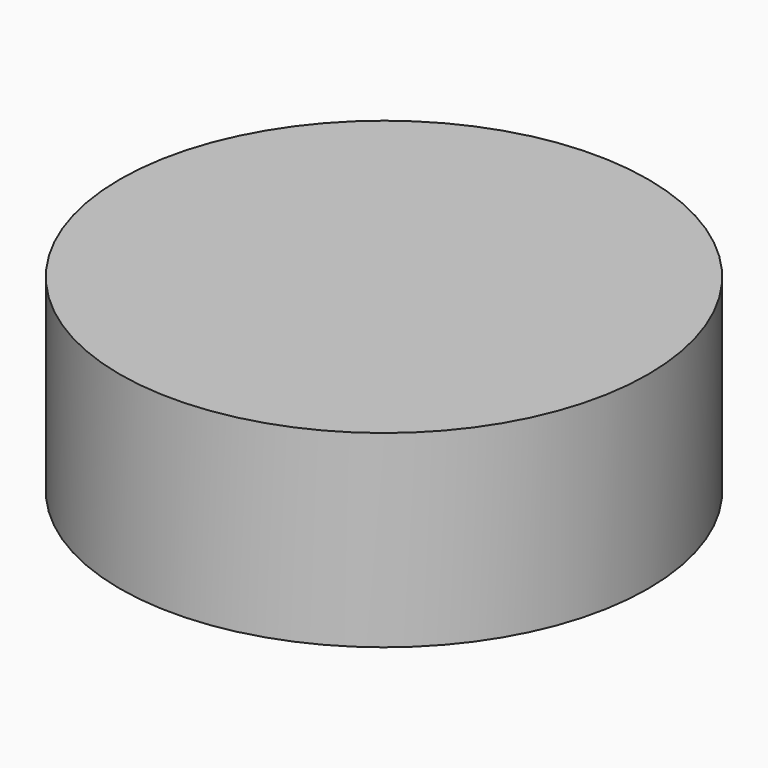
from build123d import *

# Parameters (mm, degrees)
F0_R      = 7
F1_DEPTH  = 5
F2_R      = 7
F3_DEPTH  = 5
F1_FACE_R = 7
F4_DEPTH  = 5


with BuildPart() as f1:
    # F0 (on Top) → F1 (new body)
    with BuildSketch(Plane.XY):
        Circle(F0_R)
    extrude(amount=F1_DEPTH)

    # F2 (on Top) → F3 (join)
    with BuildSketch(Plane.XY):
        Circle(F2_R)
    extrude(amount=-F3_DEPTH)

    # F1_face (on face) → F4 (cut)
    with BuildSketch(Plane.XY.offset(5)):
        Circle(F1_FACE_R)
    extrude(amount=-F4_DEPTH, mode=Mode.SUBTRACT)


solid = f1.part
